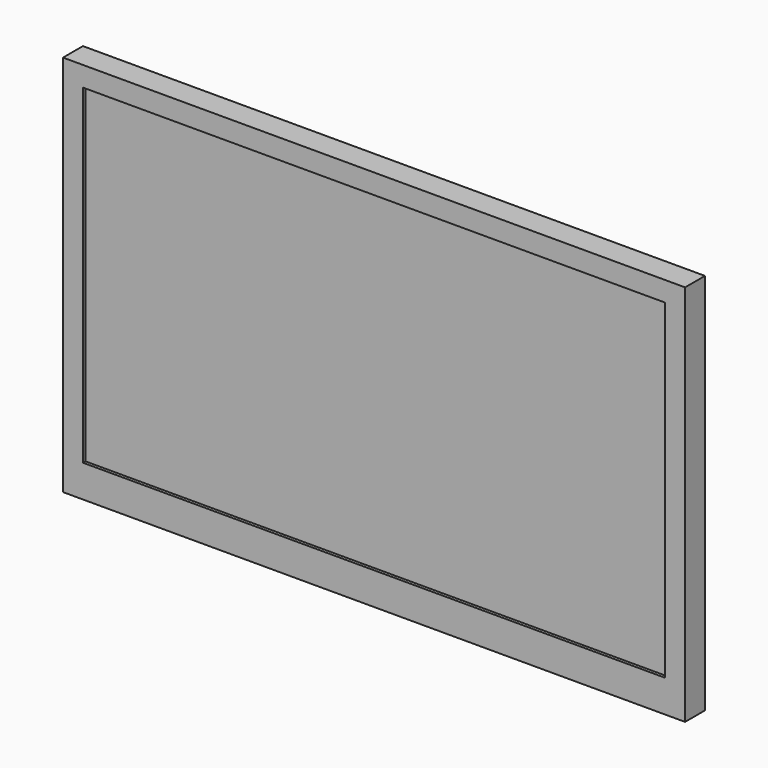
from build123d import *

# Parameters (mm, degrees)
SKETCH_W     = 1000
SKETCH_H     = 615
PAD_DEPTH    = 40
SKETCH001_W  = 936
SKETCH001_H  = 531
POCKET_DEPTH = 5


with BuildPart() as part:
    # Sketch → Pad (new body)
    with BuildSketch(Plane.XZ):
        Rectangle(SKETCH_W, SKETCH_H)
    extrude(amount=PAD_DEPTH)

    # Sketch001 (on Face6 of Pad) → Pocket (cut)
    with BuildSketch(Plane.XZ.offset(40)):
        with Locations((0, 10)):
            Rectangle(SKETCH001_W, SKETCH001_H)
    extrude(amount=-POCKET_DEPTH, mode=Mode.SUBTRACT)


solid = part.part
